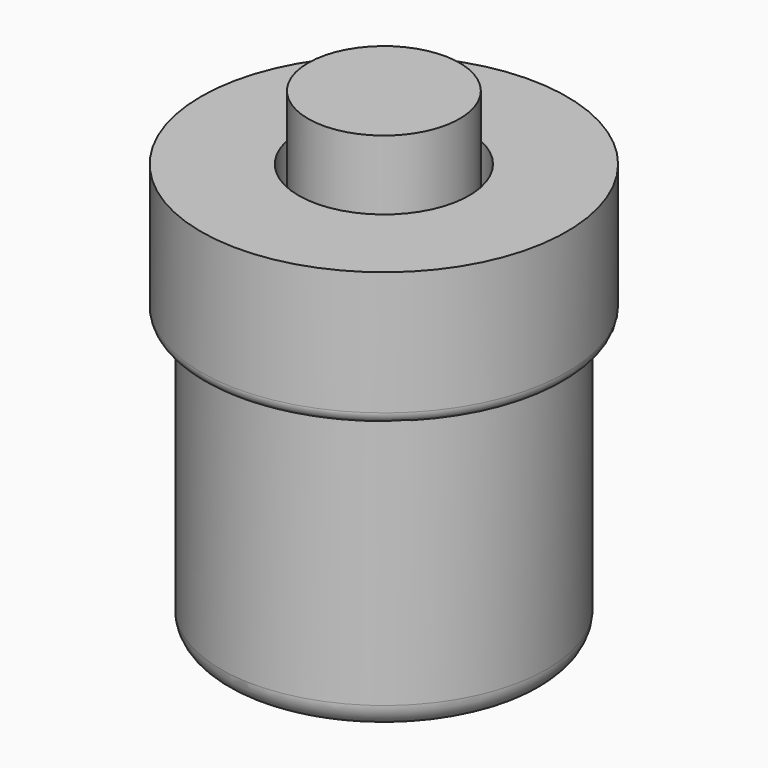
from build123d import *

# Parameters (mm, degrees)
F2_R = 0.25
F3_R = 0.5
F4_W = 1.5875
F4_H = 10.0678


with BuildPart() as f1:
    # F0 (on Front) → F1 (revolve)
    with BuildSketch(Plane.XZ):
        Polygon((-3.4163, 0), (0, 0), (0, 2), (-1.7875, 2), (-1.7875, 8.7154), (-3.8354, 8.7154), (-3.8354, 5.869), (-3.4163, 5.869), align=None)
    revolve(axis=Axis((0, 0, 1), (0, 0, -1)))

    # F2
    f2_edges = [f1.edges().sort_by_distance(p)[0] for p in [
        (3.8354, 0, 5.869),
    ]]
    fillet(f2_edges, radius=F2_R)

    # F3
    f3_edges = [f1.edges().sort_by_distance(p)[0] for p in [
        (3.4163, 0, 0),
    ]]
    fillet(f3_edges, radius=F3_R)


with BuildPart() as f5:
    # F4 (on Front) → F5 (revolve)
    with BuildSketch(Plane.XZ):
        with Locations((-0.79375, 5.0339)):
            Rectangle(F4_W, F4_H)
    revolve(axis=Axis((0, 0, 5.0339), (0, 0, 1)))


solid = Compound([f1.part, f5.part])
